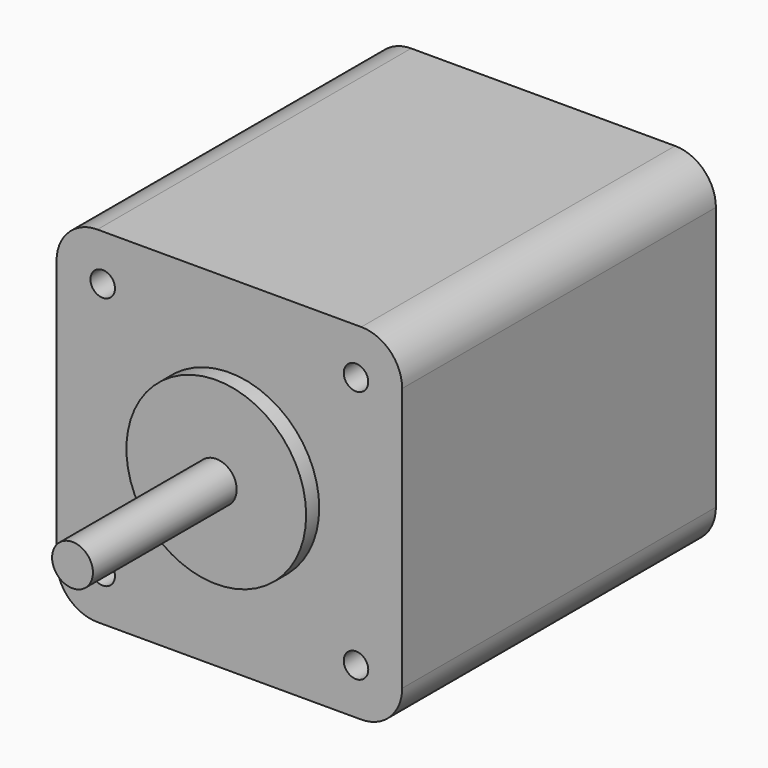
from build123d import *

# Parameters (mm, degrees)
F0_R     = 2.5
F1_DEPTH = 24
F0_R_2   = 11
F2_DEPTH = 2
F0_W     = 42.3
F0_H     = 42.3
F0_R_3   = 1.5
F3_DEPTH = 48
F4_R     = 5


with BuildPart() as f1:
    # F0 (on Front) → F1 (new body)
    with BuildSketch(Plane.XZ):
        Circle(F0_R)
    extrude(amount=F1_DEPTH)

    # F0 (on Front) → F2 (join)
    with BuildSketch(Plane.XZ):
        Circle(F0_R_2)
        Circle(F0_R, mode=Mode.SUBTRACT)
    extrude(amount=F2_DEPTH)

    # F0 (on Front) → F3 (join)
    with BuildSketch(Plane.XZ):
        Rectangle(F0_W, F0_H)
        with Locations((-15.5, -15.5)):
            Circle(F0_R_3, mode=Mode.SUBTRACT)
        with Locations((15.5, -15.5)):
            Circle(F0_R_3, mode=Mode.SUBTRACT)
        with Locations((-15.5, 15.5)):
            Circle(F0_R_3, mode=Mode.SUBTRACT)
        Circle(F0_R_2, mode=Mode.SUBTRACT)
        with Locations((15.5, 15.5)):
            Circle(F0_R_3, mode=Mode.SUBTRACT)
        Circle(F0_R_2)
        Circle(F0_R, mode=Mode.SUBTRACT)
        Circle(F0_R)
    extrude(amount=-F3_DEPTH)

    # F4
    f4_edges = [f1.edges().sort_by_distance(p)[0] for p in [
        (21.15, 24, 21.15),
        (21.15, 24, -21.15),
        (-21.15, 24, -21.15),
        (-21.15, 24, 21.15),
    ]]
    fillet(f4_edges, radius=F4_R)


solid = f1.part
